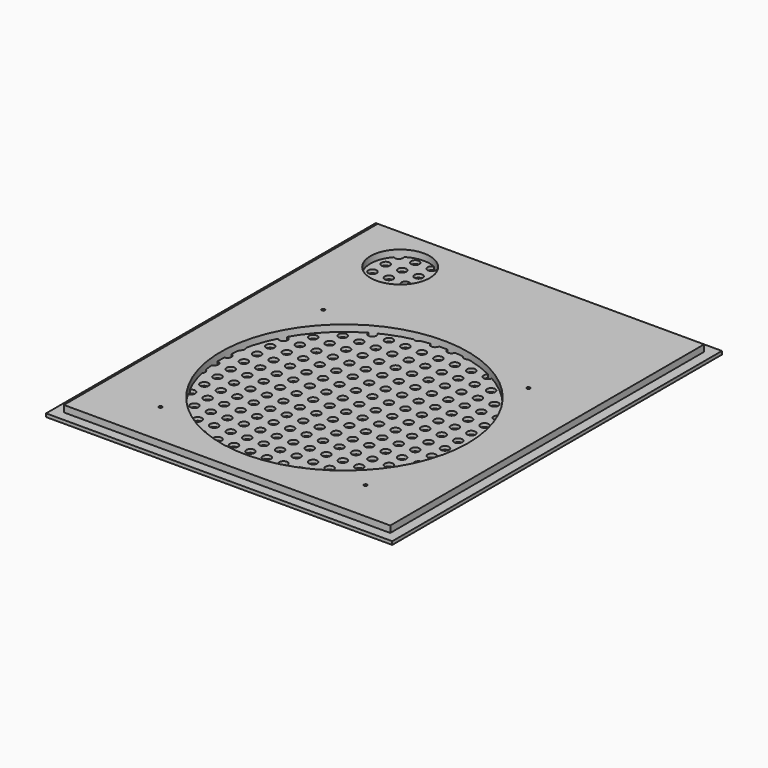
from build123d import *

# Parameters (mm, degrees)
F2_W     = 210
F2_H     = 250
F2_R     = 2.5
F3_DEPTH = 2
F1_W     = 198
F1_H     = 238
F1_R     = 1
F1_R_2   = 75
F1_R_3   = 18
F4_DEPTH = 6


with BuildPart() as f3:
    # F2 (on Top) → F3 (new body)
    with BuildSketch(Plane.XY):
        Rectangle(F2_W, F2_H)
        with Locations((-95, -115)):
            Circle(F2_R, mode=Mode.SUBTRACT)
        with Locations((-85, -115)):
            Circle(F2_R, mode=Mode.SUBTRACT)
        with Locations((-95, -105)):
            Circle(F2_R, mode=Mode.SUBTRACT)
        with Locations((-95, -95)):
            Circle(F2_R, mode=Mode.SUBTRACT)
        with Locations((-85, -105)):
            Circle(F2_R, mode=Mode.SUBTRACT)
        with Locations((-85, -95)):
            Circle(F2_R, mode=Mode.SUBTRACT)
        with Locations((-75, -115)):
            Circle(F2_R, mode=Mode.SUBTRACT)
        with Locations((-65, -115)):
            Circle(F2_R, mode=Mode.SUBTRACT)
        with Locations((-55, -115)):
            Circle(F2_R, mode=Mode.SUBTRACT)
        with Locations((-75, -105)):
            Circle(F2_R, mode=Mode.SUBTRACT)
        with Locations((-75, -95)):
            Circle(F2_R, mode=Mode.SUBTRACT)
        with Locations((-65, -105)):
            Circle(F2_R, mode=Mode.SUBTRACT)
        with Locations((-55, -105)):
            Circle(F2_R, mode=Mode.SUBTRACT)
        with Locations((-65, -95)):
            Circle(F2_R, mode=Mode.SUBTRACT)
        with Locations((-55, -95)):
            Circle(F2_R, mode=Mode.SUBTRACT)
        with Locations((-95, -85)):
            Circle(F2_R, mode=Mode.SUBTRACT)
        with Locations((-85, -85)):
            Circle(F2_R, mode=Mode.SUBTRACT)
        with Locations((-95, -75)):
            Circle(F2_R, mode=Mode.SUBTRACT)
        with Locations((-95, -65)):
            Circle(F2_R, mode=Mode.SUBTRACT)
        with Locations((-85, -75)):
            Circle(F2_R, mode=Mode.SUBTRACT)
        with Locations((-85, -65)):
            Circle(F2_R, mode=Mode.SUBTRACT)
        with Locations((-75, -85)):
            Circle(F2_R, mode=Mode.SUBTRACT)
        with Locations((-65, -85)):
            Circle(F2_R, mode=Mode.SUBTRACT)
        with Locations((-55, -85)):
            Circle(F2_R, mode=Mode.SUBTRACT)
        with Locations((-75, -75)):
            Circle(F2_R, mode=Mode.SUBTRACT)
        with Locations((-75, -65)):
            Circle(F2_R, mode=Mode.SUBTRACT)
        with Locations((-65, -75)):
            Circle(F2_R, mode=Mode.SUBTRACT)
        with Locations((-55, -75)):
            Circle(F2_R, mode=Mode.SUBTRACT)
        with Locations((-65, -65)):
            Circle(F2_R, mode=Mode.SUBTRACT)
        with Locations((-55, -65)):
            Circle(F2_R, mode=Mode.SUBTRACT)
        with Locations((-45, -115)):
            Circle(F2_R, mode=Mode.SUBTRACT)
        with Locations((-35, -115)):
            Circle(F2_R, mode=Mode.SUBTRACT)
        with Locations((-45, -105)):
            Circle(F2_R, mode=Mode.SUBTRACT)
        with Locations((-45, -95)):
            Circle(F2_R, mode=Mode.SUBTRACT)
        with Locations((-35, -105)):
            Circle(F2_R, mode=Mode.SUBTRACT)
        with Locations((-35, -95)):
            Circle(F2_R, mode=Mode.SUBTRACT)
        with Locations((-25, -115)):
            Circle(F2_R, mode=Mode.SUBTRACT)
        with Locations((-15, -115)):
            Circle(F2_R, mode=Mode.SUBTRACT)
        with Locations((-5, -115)):
            Circle(F2_R, mode=Mode.SUBTRACT)
        with Locations((-25, -105)):
            Circle(F2_R, mode=Mode.SUBTRACT)
        with Locations((-15, -105)):
            Circle(F2_R, mode=Mode.SUBTRACT)
        with Locations((-25, -95)):
            Circle(F2_R, mode=Mode.SUBTRACT)
        with Locations((-15, -95)):
            Circle(F2_R, mode=Mode.SUBTRACT)
        with Locations((-5, -105)):
            Circle(F2_R, mode=Mode.SUBTRACT)
        with Locations((-5, -95)):
            Circle(F2_R, mode=Mode.SUBTRACT)
        with Locations((-45, -85)):
            Circle(F2_R, mode=Mode.SUBTRACT)
        with Locations((-35, -85)):
            Circle(F2_R, mode=Mode.SUBTRACT)
        with Locations((-45, -75)):
            Circle(F2_R, mode=Mode.SUBTRACT)
        with Locations((-45, -65)):
            Circle(F2_R, mode=Mode.SUBTRACT)
        with Locations((-35, -75)):
            Circle(F2_R, mode=Mode.SUBTRACT)
        with Locations((-35, -65)):
            Circle(F2_R, mode=Mode.SUBTRACT)
        with Locations((-25, -85)):
            Circle(F2_R, mode=Mode.SUBTRACT)
        with Locations((-15, -85)):
            Circle(F2_R, mode=Mode.SUBTRACT)
        with Locations((-5, -85)):
            Circle(F2_R, mode=Mode.SUBTRACT)
        with Locations((-25, -75)):
            Circle(F2_R, mode=Mode.SUBTRACT)
        with Locations((-15, -75)):
            Circle(F2_R, mode=Mode.SUBTRACT)
        with Locations((-25, -65)):
            Circle(F2_R, mode=Mode.SUBTRACT)
        with Locations((-15, -65)):
            Circle(F2_R, mode=Mode.SUBTRACT)
        with Locations((-5, -75)):
            Circle(F2_R, mode=Mode.SUBTRACT)
        with Locations((-5, -65)):
            Circle(F2_R, mode=Mode.SUBTRACT)
        with Locations((-95, -55)):
            Circle(F2_R, mode=Mode.SUBTRACT)
        with Locations((-85, -55)):
            Circle(F2_R, mode=Mode.SUBTRACT)
        with Locations((-95, -45)):
            Circle(F2_R, mode=Mode.SUBTRACT)
        with Locations((-95, -35)):
            Circle(F2_R, mode=Mode.SUBTRACT)
        with Locations((-85, -45)):
            Circle(F2_R, mode=Mode.SUBTRACT)
        with Locations((-85, -35)):
            Circle(F2_R, mode=Mode.SUBTRACT)
        with Locations((-75, -55)):
            Circle(F2_R, mode=Mode.SUBTRACT)
        with Locations((-65, -55)):
            Circle(F2_R, mode=Mode.SUBTRACT)
        with Locations((-55, -55)):
            Circle(F2_R, mode=Mode.SUBTRACT)
        with Locations((-75, -45)):
            Circle(F2_R, mode=Mode.SUBTRACT)
        with Locations((-75, -35)):
            Circle(F2_R, mode=Mode.SUBTRACT)
        with Locations((-65, -45)):
            Circle(F2_R, mode=Mode.SUBTRACT)
        with Locations((-55, -45)):
            Circle(F2_R, mode=Mode.SUBTRACT)
        with Locations((-65, -35)):
            Circle(F2_R, mode=Mode.SUBTRACT)
        with Locations((-55, -35)):
            Circle(F2_R, mode=Mode.SUBTRACT)
        with Locations((-95, -25)):
            Circle(F2_R, mode=Mode.SUBTRACT)
        with Locations((-85, -25)):
            Circle(F2_R, mode=Mode.SUBTRACT)
        with Locations((-95, -15)):
            Circle(F2_R, mode=Mode.SUBTRACT)
        with Locations((-95, -5)):
            Circle(F2_R, mode=Mode.SUBTRACT)
        with Locations((-85, -15)):
            Circle(F2_R, mode=Mode.SUBTRACT)
        with Locations((-85, -5)):
            Circle(F2_R, mode=Mode.SUBTRACT)
        with Locations((-75, -25)):
            Circle(F2_R, mode=Mode.SUBTRACT)
        with Locations((-65, -25)):
            Circle(F2_R, mode=Mode.SUBTRACT)
        with Locations((-55, -25)):
            Circle(F2_R, mode=Mode.SUBTRACT)
        with Locations((-75, -15)):
            Circle(F2_R, mode=Mode.SUBTRACT)
        with Locations((-75, -5)):
            Circle(F2_R, mode=Mode.SUBTRACT)
        with Locations((-65, -15)):
            Circle(F2_R, mode=Mode.SUBTRACT)
        with Locations((-55, -15)):
            Circle(F2_R, mode=Mode.SUBTRACT)
        with Locations((-65, -5)):
            Circle(F2_R, mode=Mode.SUBTRACT)
        with Locations((-55, -5)):
            Circle(F2_R, mode=Mode.SUBTRACT)
        with Locations((-45, -55)):
            Circle(F2_R, mode=Mode.SUBTRACT)
        with Locations((-35, -55)):
            Circle(F2_R, mode=Mode.SUBTRACT)
        with Locations((-45, -45)):
            Circle(F2_R, mode=Mode.SUBTRACT)
        with Locations((-45, -35)):
            Circle(F2_R, mode=Mode.SUBTRACT)
        with Locations((-35, -45)):
            Circle(F2_R, mode=Mode.SUBTRACT)
        with Locations((-35, -35)):
            Circle(F2_R, mode=Mode.SUBTRACT)
        with Locations((-25, -55)):
            Circle(F2_R, mode=Mode.SUBTRACT)
        with Locations((-15, -55)):
            Circle(F2_R, mode=Mode.SUBTRACT)
        with Locations((-5, -55)):
            Circle(F2_R, mode=Mode.SUBTRACT)
        with Locations((-25, -45)):
            Circle(F2_R, mode=Mode.SUBTRACT)
        with Locations((-15, -45)):
            Circle(F2_R, mode=Mode.SUBTRACT)
        with Locations((-25, -35)):
            Circle(F2_R, mode=Mode.SUBTRACT)
        with Locations((-15, -35)):
            Circle(F2_R, mode=Mode.SUBTRACT)
        with Locations((-5, -45)):
            Circle(F2_R, mode=Mode.SUBTRACT)
        with Locations((-5, -35)):
            Circle(F2_R, mode=Mode.SUBTRACT)
        with Locations((-45, -25)):
            Circle(F2_R, mode=Mode.SUBTRACT)
        with Locations((-35, -25)):
            Circle(F2_R, mode=Mode.SUBTRACT)
        with Locations((-45, -15)):
            Circle(F2_R, mode=Mode.SUBTRACT)
        with Locations((-45, -5)):
            Circle(F2_R, mode=Mode.SUBTRACT)
        with Locations((-35, -15)):
            Circle(F2_R, mode=Mode.SUBTRACT)
        with Locations((-35, -5)):
            Circle(F2_R, mode=Mode.SUBTRACT)
        with Locations((-25, -25)):
            Circle(F2_R, mode=Mode.SUBTRACT)
        with Locations((-15, -25)):
            Circle(F2_R, mode=Mode.SUBTRACT)
        with Locations((-5, -25)):
            Circle(F2_R, mode=Mode.SUBTRACT)
        with Locations((-25, -15)):
            Circle(F2_R, mode=Mode.SUBTRACT)
        with Locations((-15, -15)):
            Circle(F2_R, mode=Mode.SUBTRACT)
        with Locations((-25, -5)):
            Circle(F2_R, mode=Mode.SUBTRACT)
        with Locations((-15, -5)):
            Circle(F2_R, mode=Mode.SUBTRACT)
        with Locations((-5, -15)):
            Circle(F2_R, mode=Mode.SUBTRACT)
        with Locations((-5, -5)):
            Circle(F2_R, mode=Mode.SUBTRACT)
        with Locations((5, -115)):
            Circle(F2_R, mode=Mode.SUBTRACT)
        with Locations((15, -115)):
            Circle(F2_R, mode=Mode.SUBTRACT)
        with Locations((25, -115)):
            Circle(F2_R, mode=Mode.SUBTRACT)
        with Locations((5, -105)):
            Circle(F2_R, mode=Mode.SUBTRACT)
        with Locations((5, -95)):
            Circle(F2_R, mode=Mode.SUBTRACT)
        with Locations((15, -105)):
            Circle(F2_R, mode=Mode.SUBTRACT)
        with Locations((25, -105)):
            Circle(F2_R, mode=Mode.SUBTRACT)
        with Locations((15, -95)):
            Circle(F2_R, mode=Mode.SUBTRACT)
        with Locations((25, -95)):
            Circle(F2_R, mode=Mode.SUBTRACT)
        with Locations((35, -115)):
            Circle(F2_R, mode=Mode.SUBTRACT)
        with Locations((45, -115)):
            Circle(F2_R, mode=Mode.SUBTRACT)
        with Locations((35, -105)):
            Circle(F2_R, mode=Mode.SUBTRACT)
        with Locations((35, -95)):
            Circle(F2_R, mode=Mode.SUBTRACT)
        with Locations((45, -105)):
            Circle(F2_R, mode=Mode.SUBTRACT)
        with Locations((45, -95)):
            Circle(F2_R, mode=Mode.SUBTRACT)
        with Locations((5, -85)):
            Circle(F2_R, mode=Mode.SUBTRACT)
        with Locations((15, -85)):
            Circle(F2_R, mode=Mode.SUBTRACT)
        with Locations((25, -85)):
            Circle(F2_R, mode=Mode.SUBTRACT)
        with Locations((5, -75)):
            Circle(F2_R, mode=Mode.SUBTRACT)
        with Locations((5, -65)):
            Circle(F2_R, mode=Mode.SUBTRACT)
        with Locations((15, -75)):
            Circle(F2_R, mode=Mode.SUBTRACT)
        with Locations((25, -75)):
            Circle(F2_R, mode=Mode.SUBTRACT)
        with Locations((15, -65)):
            Circle(F2_R, mode=Mode.SUBTRACT)
        with Locations((25, -65)):
            Circle(F2_R, mode=Mode.SUBTRACT)
        with Locations((35, -85)):
            Circle(F2_R, mode=Mode.SUBTRACT)
        with Locations((45, -85)):
            Circle(F2_R, mode=Mode.SUBTRACT)
        with Locations((35, -75)):
            Circle(F2_R, mode=Mode.SUBTRACT)
        with Locations((35, -65)):
            Circle(F2_R, mode=Mode.SUBTRACT)
        with Locations((45, -75)):
            Circle(F2_R, mode=Mode.SUBTRACT)
        with Locations((45, -65)):
            Circle(F2_R, mode=Mode.SUBTRACT)
        with Locations((55, -115)):
            Circle(F2_R, mode=Mode.SUBTRACT)
        with Locations((65, -115)):
            Circle(F2_R, mode=Mode.SUBTRACT)
        with Locations((75, -115)):
            Circle(F2_R, mode=Mode.SUBTRACT)
        with Locations((55, -105)):
            Circle(F2_R, mode=Mode.SUBTRACT)
        with Locations((65, -105)):
            Circle(F2_R, mode=Mode.SUBTRACT)
        with Locations((55, -95)):
            Circle(F2_R, mode=Mode.SUBTRACT)
        with Locations((65, -95)):
            Circle(F2_R, mode=Mode.SUBTRACT)
        with Locations((75, -105)):
            Circle(F2_R, mode=Mode.SUBTRACT)
        with Locations((75, -95)):
            Circle(F2_R, mode=Mode.SUBTRACT)
        with Locations((85, -115)):
            Circle(F2_R, mode=Mode.SUBTRACT)
        with Locations((95, -115)):
            Circle(F2_R, mode=Mode.SUBTRACT)
        with Locations((85, -105)):
            Circle(F2_R, mode=Mode.SUBTRACT)
        with Locations((85, -95)):
            Circle(F2_R, mode=Mode.SUBTRACT)
        with Locations((95, -105)):
            Circle(F2_R, mode=Mode.SUBTRACT)
        with Locations((95, -95)):
            Circle(F2_R, mode=Mode.SUBTRACT)
        with Locations((55, -85)):
            Circle(F2_R, mode=Mode.SUBTRACT)
        with Locations((65, -85)):
            Circle(F2_R, mode=Mode.SUBTRACT)
        with Locations((75, -85)):
            Circle(F2_R, mode=Mode.SUBTRACT)
        with Locations((55, -75)):
            Circle(F2_R, mode=Mode.SUBTRACT)
        with Locations((65, -75)):
            Circle(F2_R, mode=Mode.SUBTRACT)
        with Locations((55, -65)):
            Circle(F2_R, mode=Mode.SUBTRACT)
        with Locations((65, -65)):
            Circle(F2_R, mode=Mode.SUBTRACT)
        with Locations((75, -75)):
            Circle(F2_R, mode=Mode.SUBTRACT)
        with Locations((75, -65)):
            Circle(F2_R, mode=Mode.SUBTRACT)
        with Locations((85, -85)):
            Circle(F2_R, mode=Mode.SUBTRACT)
        with Locations((95, -85)):
            Circle(F2_R, mode=Mode.SUBTRACT)
        with Locations((85, -75)):
            Circle(F2_R, mode=Mode.SUBTRACT)
        with Locations((85, -65)):
            Circle(F2_R, mode=Mode.SUBTRACT)
        with Locations((95, -75)):
            Circle(F2_R, mode=Mode.SUBTRACT)
        with Locations((95, -65)):
            Circle(F2_R, mode=Mode.SUBTRACT)
        with Locations((5, -55)):
            Circle(F2_R, mode=Mode.SUBTRACT)
        with Locations((15, -55)):
            Circle(F2_R, mode=Mode.SUBTRACT)
        with Locations((25, -55)):
            Circle(F2_R, mode=Mode.SUBTRACT)
        with Locations((5, -45)):
            Circle(F2_R, mode=Mode.SUBTRACT)
        with Locations((5, -35)):
            Circle(F2_R, mode=Mode.SUBTRACT)
        with Locations((15, -45)):
            Circle(F2_R, mode=Mode.SUBTRACT)
        with Locations((25, -45)):
            Circle(F2_R, mode=Mode.SUBTRACT)
        with Locations((15, -35)):
            Circle(F2_R, mode=Mode.SUBTRACT)
        with Locations((25, -35)):
            Circle(F2_R, mode=Mode.SUBTRACT)
        with Locations((35, -55)):
            Circle(F2_R, mode=Mode.SUBTRACT)
        with Locations((45, -55)):
            Circle(F2_R, mode=Mode.SUBTRACT)
        with Locations((35, -45)):
            Circle(F2_R, mode=Mode.SUBTRACT)
        with Locations((35, -35)):
            Circle(F2_R, mode=Mode.SUBTRACT)
        with Locations((45, -45)):
            Circle(F2_R, mode=Mode.SUBTRACT)
        with Locations((45, -35)):
            Circle(F2_R, mode=Mode.SUBTRACT)
        with Locations((5, -25)):
            Circle(F2_R, mode=Mode.SUBTRACT)
        with Locations((15, -25)):
            Circle(F2_R, mode=Mode.SUBTRACT)
        with Locations((25, -25)):
            Circle(F2_R, mode=Mode.SUBTRACT)
        with Locations((5, -15)):
            Circle(F2_R, mode=Mode.SUBTRACT)
        with Locations((5, -5)):
            Circle(F2_R, mode=Mode.SUBTRACT)
        with Locations((15, -15)):
            Circle(F2_R, mode=Mode.SUBTRACT)
        with Locations((25, -15)):
            Circle(F2_R, mode=Mode.SUBTRACT)
        with Locations((15, -5)):
            Circle(F2_R, mode=Mode.SUBTRACT)
        with Locations((25, -5)):
            Circle(F2_R, mode=Mode.SUBTRACT)
        with Locations((35, -25)):
            Circle(F2_R, mode=Mode.SUBTRACT)
        with Locations((45, -25)):
            Circle(F2_R, mode=Mode.SUBTRACT)
        with Locations((35, -15)):
            Circle(F2_R, mode=Mode.SUBTRACT)
        with Locations((35, -5)):
            Circle(F2_R, mode=Mode.SUBTRACT)
        with Locations((45, -15)):
            Circle(F2_R, mode=Mode.SUBTRACT)
        with Locations((45, -5)):
            Circle(F2_R, mode=Mode.SUBTRACT)
        with Locations((55, -55)):
            Circle(F2_R, mode=Mode.SUBTRACT)
        with Locations((65, -55)):
            Circle(F2_R, mode=Mode.SUBTRACT)
        with Locations((75, -55)):
            Circle(F2_R, mode=Mode.SUBTRACT)
        with Locations((55, -45)):
            Circle(F2_R, mode=Mode.SUBTRACT)
        with Locations((65, -45)):
            Circle(F2_R, mode=Mode.SUBTRACT)
        with Locations((55, -35)):
            Circle(F2_R, mode=Mode.SUBTRACT)
        with Locations((65, -35)):
            Circle(F2_R, mode=Mode.SUBTRACT)
        with Locations((75, -45)):
            Circle(F2_R, mode=Mode.SUBTRACT)
        with Locations((75, -35)):
            Circle(F2_R, mode=Mode.SUBTRACT)
        with Locations((85, -55)):
            Circle(F2_R, mode=Mode.SUBTRACT)
        with Locations((95, -55)):
            Circle(F2_R, mode=Mode.SUBTRACT)
        with Locations((85, -45)):
            Circle(F2_R, mode=Mode.SUBTRACT)
        with Locations((85, -35)):
            Circle(F2_R, mode=Mode.SUBTRACT)
        with Locations((95, -45)):
            Circle(F2_R, mode=Mode.SUBTRACT)
        with Locations((95, -35)):
            Circle(F2_R, mode=Mode.SUBTRACT)
        with Locations((55, -25)):
            Circle(F2_R, mode=Mode.SUBTRACT)
        with Locations((65, -25)):
            Circle(F2_R, mode=Mode.SUBTRACT)
        with Locations((75, -25)):
            Circle(F2_R, mode=Mode.SUBTRACT)
        with Locations((55, -15)):
            Circle(F2_R, mode=Mode.SUBTRACT)
        with Locations((65, -15)):
            Circle(F2_R, mode=Mode.SUBTRACT)
        with Locations((55, -5)):
            Circle(F2_R, mode=Mode.SUBTRACT)
        with Locations((65, -5)):
            Circle(F2_R, mode=Mode.SUBTRACT)
        with Locations((75, -15)):
            Circle(F2_R, mode=Mode.SUBTRACT)
        with Locations((75, -5)):
            Circle(F2_R, mode=Mode.SUBTRACT)
        with Locations((85, -25)):
            Circle(F2_R, mode=Mode.SUBTRACT)
        with Locations((95, -25)):
            Circle(F2_R, mode=Mode.SUBTRACT)
        with Locations((85, -15)):
            Circle(F2_R, mode=Mode.SUBTRACT)
        with Locations((85, -5)):
            Circle(F2_R, mode=Mode.SUBTRACT)
        with Locations((95, -15)):
            Circle(F2_R, mode=Mode.SUBTRACT)
        with Locations((95, -5)):
            Circle(F2_R, mode=Mode.SUBTRACT)
        with Locations((-95, 5)):
            Circle(F2_R, mode=Mode.SUBTRACT)
        with Locations((-95, 15)):
            Circle(F2_R, mode=Mode.SUBTRACT)
        with Locations((-85, 5)):
            Circle(F2_R, mode=Mode.SUBTRACT)
        with Locations((-85, 15)):
            Circle(F2_R, mode=Mode.SUBTRACT)
        with Locations((-95, 25)):
            Circle(F2_R, mode=Mode.SUBTRACT)
        with Locations((-85, 25)):
            Circle(F2_R, mode=Mode.SUBTRACT)
        with Locations((-75, 5)):
            Circle(F2_R, mode=Mode.SUBTRACT)
        with Locations((-75, 15)):
            Circle(F2_R, mode=Mode.SUBTRACT)
        with Locations((-65, 5)):
            Circle(F2_R, mode=Mode.SUBTRACT)
        with Locations((-55, 5)):
            Circle(F2_R, mode=Mode.SUBTRACT)
        with Locations((-65, 15)):
            Circle(F2_R, mode=Mode.SUBTRACT)
        with Locations((-55, 15)):
            Circle(F2_R, mode=Mode.SUBTRACT)
        with Locations((-75, 25)):
            Circle(F2_R, mode=Mode.SUBTRACT)
        with Locations((-65, 25)):
            Circle(F2_R, mode=Mode.SUBTRACT)
        with Locations((-55, 25)):
            Circle(F2_R, mode=Mode.SUBTRACT)
        with Locations((-95, 35)):
            Circle(F2_R, mode=Mode.SUBTRACT)
        with Locations((-95, 45)):
            Circle(F2_R, mode=Mode.SUBTRACT)
        with Locations((-85, 35)):
            Circle(F2_R, mode=Mode.SUBTRACT)
        with Locations((-85, 45)):
            Circle(F2_R, mode=Mode.SUBTRACT)
        with Locations((-95, 55)):
            Circle(F2_R, mode=Mode.SUBTRACT)
        with Locations((-85, 55)):
            Circle(F2_R, mode=Mode.SUBTRACT)
        with Locations((-75, 35)):
            Circle(F2_R, mode=Mode.SUBTRACT)
        with Locations((-75, 45)):
            Circle(F2_R, mode=Mode.SUBTRACT)
        with Locations((-65, 35)):
            Circle(F2_R, mode=Mode.SUBTRACT)
        with Locations((-55, 35)):
            Circle(F2_R, mode=Mode.SUBTRACT)
        with Locations((-65, 45)):
            Circle(F2_R, mode=Mode.SUBTRACT)
        with Locations((-55, 45)):
            Circle(F2_R, mode=Mode.SUBTRACT)
        with Locations((-75, 55)):
            Circle(F2_R, mode=Mode.SUBTRACT)
        with Locations((-65, 55)):
            Circle(F2_R, mode=Mode.SUBTRACT)
        with Locations((-55, 55)):
            Circle(F2_R, mode=Mode.SUBTRACT)
        with Locations((-45, 5)):
            Circle(F2_R, mode=Mode.SUBTRACT)
        with Locations((-45, 15)):
            Circle(F2_R, mode=Mode.SUBTRACT)
        with Locations((-35, 5)):
            Circle(F2_R, mode=Mode.SUBTRACT)
        with Locations((-35, 15)):
            Circle(F2_R, mode=Mode.SUBTRACT)
        with Locations((-45, 25)):
            Circle(F2_R, mode=Mode.SUBTRACT)
        with Locations((-35, 25)):
            Circle(F2_R, mode=Mode.SUBTRACT)
        with Locations((-25, 5)):
            Circle(F2_R, mode=Mode.SUBTRACT)
        with Locations((-15, 5)):
            Circle(F2_R, mode=Mode.SUBTRACT)
        with Locations((-25, 15)):
            Circle(F2_R, mode=Mode.SUBTRACT)
        with Locations((-15, 15)):
            Circle(F2_R, mode=Mode.SUBTRACT)
        with Locations((-5, 5)):
            Circle(F2_R, mode=Mode.SUBTRACT)
        with Locations((-5, 15)):
            Circle(F2_R, mode=Mode.SUBTRACT)
        with Locations((-25, 25)):
            Circle(F2_R, mode=Mode.SUBTRACT)
        with Locations((-15, 25)):
            Circle(F2_R, mode=Mode.SUBTRACT)
        with Locations((-5, 25)):
            Circle(F2_R, mode=Mode.SUBTRACT)
        with Locations((-45, 35)):
            Circle(F2_R, mode=Mode.SUBTRACT)
        with Locations((-45, 45)):
            Circle(F2_R, mode=Mode.SUBTRACT)
        with Locations((-35, 35)):
            Circle(F2_R, mode=Mode.SUBTRACT)
        with Locations((-35, 45)):
            Circle(F2_R, mode=Mode.SUBTRACT)
        with Locations((-45, 55)):
            Circle(F2_R, mode=Mode.SUBTRACT)
        with Locations((-35, 55)):
            Circle(F2_R, mode=Mode.SUBTRACT)
        with Locations((-25, 35)):
            Circle(F2_R, mode=Mode.SUBTRACT)
        with Locations((-15, 35)):
            Circle(F2_R, mode=Mode.SUBTRACT)
        with Locations((-25, 45)):
            Circle(F2_R, mode=Mode.SUBTRACT)
        with Locations((-15, 45)):
            Circle(F2_R, mode=Mode.SUBTRACT)
        with Locations((-5, 35)):
            Circle(F2_R, mode=Mode.SUBTRACT)
        with Locations((-5, 45)):
            Circle(F2_R, mode=Mode.SUBTRACT)
        with Locations((-25, 55)):
            Circle(F2_R, mode=Mode.SUBTRACT)
        with Locations((-15, 55)):
            Circle(F2_R, mode=Mode.SUBTRACT)
        with Locations((-5, 55)):
            Circle(F2_R, mode=Mode.SUBTRACT)
        with Locations((-95, 65)):
            Circle(F2_R, mode=Mode.SUBTRACT)
        with Locations((-95, 75)):
            Circle(F2_R, mode=Mode.SUBTRACT)
        with Locations((-85, 65)):
            Circle(F2_R, mode=Mode.SUBTRACT)
        with Locations((-85, 75)):
            Circle(F2_R, mode=Mode.SUBTRACT)
        with Locations((-95, 85)):
            Circle(F2_R, mode=Mode.SUBTRACT)
        with Locations((-85, 85)):
            Circle(F2_R, mode=Mode.SUBTRACT)
        with Locations((-75, 65)):
            Circle(F2_R, mode=Mode.SUBTRACT)
        with Locations((-75, 75)):
            Circle(F2_R, mode=Mode.SUBTRACT)
        with Locations((-65, 65)):
            Circle(F2_R, mode=Mode.SUBTRACT)
        with Locations((-55, 65)):
            Circle(F2_R, mode=Mode.SUBTRACT)
        with Locations((-65, 75)):
            Circle(F2_R, mode=Mode.SUBTRACT)
        with Locations((-55, 75)):
            Circle(F2_R, mode=Mode.SUBTRACT)
        with Locations((-75, 85)):
            Circle(F2_R, mode=Mode.SUBTRACT)
        with Locations((-65, 85)):
            Circle(F2_R, mode=Mode.SUBTRACT)
        with Locations((-55, 85)):
            Circle(F2_R, mode=Mode.SUBTRACT)
        with Locations((-95, 95)):
            Circle(F2_R, mode=Mode.SUBTRACT)
        with Locations((-95, 105)):
            Circle(F2_R, mode=Mode.SUBTRACT)
        with Locations((-85, 95)):
            Circle(F2_R, mode=Mode.SUBTRACT)
        with Locations((-85, 105)):
            Circle(F2_R, mode=Mode.SUBTRACT)
        with Locations((-95, 115)):
            Circle(F2_R, mode=Mode.SUBTRACT)
        with Locations((-85, 115)):
            Circle(F2_R, mode=Mode.SUBTRACT)
        with Locations((-75, 95)):
            Circle(F2_R, mode=Mode.SUBTRACT)
        with Locations((-75, 105)):
            Circle(F2_R, mode=Mode.SUBTRACT)
        with Locations((-65, 95)):
            Circle(F2_R, mode=Mode.SUBTRACT)
        with Locations((-55, 95)):
            Circle(F2_R, mode=Mode.SUBTRACT)
        with Locations((-65, 105)):
            Circle(F2_R, mode=Mode.SUBTRACT)
        with Locations((-55, 105)):
            Circle(F2_R, mode=Mode.SUBTRACT)
        with Locations((-75, 115)):
            Circle(F2_R, mode=Mode.SUBTRACT)
        with Locations((-65, 115)):
            Circle(F2_R, mode=Mode.SUBTRACT)
        with Locations((-55, 115)):
            Circle(F2_R, mode=Mode.SUBTRACT)
        with Locations((-45, 65)):
            Circle(F2_R, mode=Mode.SUBTRACT)
        with Locations((-45, 75)):
            Circle(F2_R, mode=Mode.SUBTRACT)
        with Locations((-35, 65)):
            Circle(F2_R, mode=Mode.SUBTRACT)
        with Locations((-35, 75)):
            Circle(F2_R, mode=Mode.SUBTRACT)
        with Locations((-45, 85)):
            Circle(F2_R, mode=Mode.SUBTRACT)
        with Locations((-35, 85)):
            Circle(F2_R, mode=Mode.SUBTRACT)
        with Locations((-25, 65)):
            Circle(F2_R, mode=Mode.SUBTRACT)
        with Locations((-15, 65)):
            Circle(F2_R, mode=Mode.SUBTRACT)
        with Locations((-25, 75)):
            Circle(F2_R, mode=Mode.SUBTRACT)
        with Locations((-15, 75)):
            Circle(F2_R, mode=Mode.SUBTRACT)
        with Locations((-5, 65)):
            Circle(F2_R, mode=Mode.SUBTRACT)
        with Locations((-5, 75)):
            Circle(F2_R, mode=Mode.SUBTRACT)
        with Locations((-25, 85)):
            Circle(F2_R, mode=Mode.SUBTRACT)
        with Locations((-15, 85)):
            Circle(F2_R, mode=Mode.SUBTRACT)
        with Locations((-5, 85)):
            Circle(F2_R, mode=Mode.SUBTRACT)
        with Locations((-45, 95)):
            Circle(F2_R, mode=Mode.SUBTRACT)
        with Locations((-45, 105)):
            Circle(F2_R, mode=Mode.SUBTRACT)
        with Locations((-35, 95)):
            Circle(F2_R, mode=Mode.SUBTRACT)
        with Locations((-35, 105)):
            Circle(F2_R, mode=Mode.SUBTRACT)
        with Locations((-45, 115)):
            Circle(F2_R, mode=Mode.SUBTRACT)
        with Locations((-35, 115)):
            Circle(F2_R, mode=Mode.SUBTRACT)
        with Locations((-25, 95)):
            Circle(F2_R, mode=Mode.SUBTRACT)
        with Locations((-15, 95)):
            Circle(F2_R, mode=Mode.SUBTRACT)
        with Locations((-25, 105)):
            Circle(F2_R, mode=Mode.SUBTRACT)
        with Locations((-15, 105)):
            Circle(F2_R, mode=Mode.SUBTRACT)
        with Locations((-5, 95)):
            Circle(F2_R, mode=Mode.SUBTRACT)
        with Locations((-5, 105)):
            Circle(F2_R, mode=Mode.SUBTRACT)
        with Locations((-25, 115)):
            Circle(F2_R, mode=Mode.SUBTRACT)
        with Locations((-15, 115)):
            Circle(F2_R, mode=Mode.SUBTRACT)
        with Locations((-5, 115)):
            Circle(F2_R, mode=Mode.SUBTRACT)
        with Locations((5, 5)):
            Circle(F2_R, mode=Mode.SUBTRACT)
        with Locations((5, 15)):
            Circle(F2_R, mode=Mode.SUBTRACT)
        with Locations((15, 5)):
            Circle(F2_R, mode=Mode.SUBTRACT)
        with Locations((25, 5)):
            Circle(F2_R, mode=Mode.SUBTRACT)
        with Locations((15, 15)):
            Circle(F2_R, mode=Mode.SUBTRACT)
        with Locations((25, 15)):
            Circle(F2_R, mode=Mode.SUBTRACT)
        with Locations((5, 25)):
            Circle(F2_R, mode=Mode.SUBTRACT)
        with Locations((15, 25)):
            Circle(F2_R, mode=Mode.SUBTRACT)
        with Locations((25, 25)):
            Circle(F2_R, mode=Mode.SUBTRACT)
        with Locations((35, 5)):
            Circle(F2_R, mode=Mode.SUBTRACT)
        with Locations((35, 15)):
            Circle(F2_R, mode=Mode.SUBTRACT)
        with Locations((45, 5)):
            Circle(F2_R, mode=Mode.SUBTRACT)
        with Locations((45, 15)):
            Circle(F2_R, mode=Mode.SUBTRACT)
        with Locations((35, 25)):
            Circle(F2_R, mode=Mode.SUBTRACT)
        with Locations((45, 25)):
            Circle(F2_R, mode=Mode.SUBTRACT)
        with Locations((5, 35)):
            Circle(F2_R, mode=Mode.SUBTRACT)
        with Locations((5, 45)):
            Circle(F2_R, mode=Mode.SUBTRACT)
        with Locations((15, 35)):
            Circle(F2_R, mode=Mode.SUBTRACT)
        with Locations((25, 35)):
            Circle(F2_R, mode=Mode.SUBTRACT)
        with Locations((15, 45)):
            Circle(F2_R, mode=Mode.SUBTRACT)
        with Locations((25, 45)):
            Circle(F2_R, mode=Mode.SUBTRACT)
        with Locations((5, 55)):
            Circle(F2_R, mode=Mode.SUBTRACT)
        with Locations((15, 55)):
            Circle(F2_R, mode=Mode.SUBTRACT)
        with Locations((25, 55)):
            Circle(F2_R, mode=Mode.SUBTRACT)
        with Locations((35, 35)):
            Circle(F2_R, mode=Mode.SUBTRACT)
        with Locations((35, 45)):
            Circle(F2_R, mode=Mode.SUBTRACT)
        with Locations((45, 35)):
            Circle(F2_R, mode=Mode.SUBTRACT)
        with Locations((45, 45)):
            Circle(F2_R, mode=Mode.SUBTRACT)
        with Locations((35, 55)):
            Circle(F2_R, mode=Mode.SUBTRACT)
        with Locations((45, 55)):
            Circle(F2_R, mode=Mode.SUBTRACT)
        with Locations((55, 5)):
            Circle(F2_R, mode=Mode.SUBTRACT)
        with Locations((65, 5)):
            Circle(F2_R, mode=Mode.SUBTRACT)
        with Locations((55, 15)):
            Circle(F2_R, mode=Mode.SUBTRACT)
        with Locations((65, 15)):
            Circle(F2_R, mode=Mode.SUBTRACT)
        with Locations((75, 5)):
            Circle(F2_R, mode=Mode.SUBTRACT)
        with Locations((75, 15)):
            Circle(F2_R, mode=Mode.SUBTRACT)
        with Locations((55, 25)):
            Circle(F2_R, mode=Mode.SUBTRACT)
        with Locations((65, 25)):
            Circle(F2_R, mode=Mode.SUBTRACT)
        with Locations((75, 25)):
            Circle(F2_R, mode=Mode.SUBTRACT)
        with Locations((85, 5)):
            Circle(F2_R, mode=Mode.SUBTRACT)
        with Locations((85, 15)):
            Circle(F2_R, mode=Mode.SUBTRACT)
        with Locations((95, 5)):
            Circle(F2_R, mode=Mode.SUBTRACT)
        with Locations((95, 15)):
            Circle(F2_R, mode=Mode.SUBTRACT)
        with Locations((85, 25)):
            Circle(F2_R, mode=Mode.SUBTRACT)
        with Locations((95, 25)):
            Circle(F2_R, mode=Mode.SUBTRACT)
        with Locations((55, 35)):
            Circle(F2_R, mode=Mode.SUBTRACT)
        with Locations((65, 35)):
            Circle(F2_R, mode=Mode.SUBTRACT)
        with Locations((55, 45)):
            Circle(F2_R, mode=Mode.SUBTRACT)
        with Locations((65, 45)):
            Circle(F2_R, mode=Mode.SUBTRACT)
        with Locations((75, 35)):
            Circle(F2_R, mode=Mode.SUBTRACT)
        with Locations((75, 45)):
            Circle(F2_R, mode=Mode.SUBTRACT)
        with Locations((55, 55)):
            Circle(F2_R, mode=Mode.SUBTRACT)
        with Locations((65, 55)):
            Circle(F2_R, mode=Mode.SUBTRACT)
        with Locations((75, 55)):
            Circle(F2_R, mode=Mode.SUBTRACT)
        with Locations((85, 35)):
            Circle(F2_R, mode=Mode.SUBTRACT)
        with Locations((85, 45)):
            Circle(F2_R, mode=Mode.SUBTRACT)
        with Locations((95, 35)):
            Circle(F2_R, mode=Mode.SUBTRACT)
        with Locations((95, 45)):
            Circle(F2_R, mode=Mode.SUBTRACT)
        with Locations((85, 55)):
            Circle(F2_R, mode=Mode.SUBTRACT)
        with Locations((95, 55)):
            Circle(F2_R, mode=Mode.SUBTRACT)
        with Locations((5, 65)):
            Circle(F2_R, mode=Mode.SUBTRACT)
        with Locations((5, 75)):
            Circle(F2_R, mode=Mode.SUBTRACT)
        with Locations((15, 65)):
            Circle(F2_R, mode=Mode.SUBTRACT)
        with Locations((25, 65)):
            Circle(F2_R, mode=Mode.SUBTRACT)
        with Locations((15, 75)):
            Circle(F2_R, mode=Mode.SUBTRACT)
        with Locations((25, 75)):
            Circle(F2_R, mode=Mode.SUBTRACT)
        with Locations((5, 85)):
            Circle(F2_R, mode=Mode.SUBTRACT)
        with Locations((15, 85)):
            Circle(F2_R, mode=Mode.SUBTRACT)
        with Locations((25, 85)):
            Circle(F2_R, mode=Mode.SUBTRACT)
        with Locations((35, 65)):
            Circle(F2_R, mode=Mode.SUBTRACT)
        with Locations((35, 75)):
            Circle(F2_R, mode=Mode.SUBTRACT)
        with Locations((45, 65)):
            Circle(F2_R, mode=Mode.SUBTRACT)
        with Locations((45, 75)):
            Circle(F2_R, mode=Mode.SUBTRACT)
        with Locations((35, 85)):
            Circle(F2_R, mode=Mode.SUBTRACT)
        with Locations((45, 85)):
            Circle(F2_R, mode=Mode.SUBTRACT)
        with Locations((5, 95)):
            Circle(F2_R, mode=Mode.SUBTRACT)
        with Locations((5, 105)):
            Circle(F2_R, mode=Mode.SUBTRACT)
        with Locations((15, 95)):
            Circle(F2_R, mode=Mode.SUBTRACT)
        with Locations((25, 95)):
            Circle(F2_R, mode=Mode.SUBTRACT)
        with Locations((15, 105)):
            Circle(F2_R, mode=Mode.SUBTRACT)
        with Locations((25, 105)):
            Circle(F2_R, mode=Mode.SUBTRACT)
        with Locations((5, 115)):
            Circle(F2_R, mode=Mode.SUBTRACT)
        with Locations((15, 115)):
            Circle(F2_R, mode=Mode.SUBTRACT)
        with Locations((25, 115)):
            Circle(F2_R, mode=Mode.SUBTRACT)
        with Locations((35, 95)):
            Circle(F2_R, mode=Mode.SUBTRACT)
        with Locations((35, 105)):
            Circle(F2_R, mode=Mode.SUBTRACT)
        with Locations((45, 95)):
            Circle(F2_R, mode=Mode.SUBTRACT)
        with Locations((45, 105)):
            Circle(F2_R, mode=Mode.SUBTRACT)
        with Locations((35, 115)):
            Circle(F2_R, mode=Mode.SUBTRACT)
        with Locations((45, 115)):
            Circle(F2_R, mode=Mode.SUBTRACT)
        with Locations((55, 65)):
            Circle(F2_R, mode=Mode.SUBTRACT)
        with Locations((65, 65)):
            Circle(F2_R, mode=Mode.SUBTRACT)
        with Locations((55, 75)):
            Circle(F2_R, mode=Mode.SUBTRACT)
        with Locations((65, 75)):
            Circle(F2_R, mode=Mode.SUBTRACT)
        with Locations((75, 65)):
            Circle(F2_R, mode=Mode.SUBTRACT)
        with Locations((75, 75)):
            Circle(F2_R, mode=Mode.SUBTRACT)
        with Locations((55, 85)):
            Circle(F2_R, mode=Mode.SUBTRACT)
        with Locations((65, 85)):
            Circle(F2_R, mode=Mode.SUBTRACT)
        with Locations((75, 85)):
            Circle(F2_R, mode=Mode.SUBTRACT)
        with Locations((85, 65)):
            Circle(F2_R, mode=Mode.SUBTRACT)
        with Locations((85, 75)):
            Circle(F2_R, mode=Mode.SUBTRACT)
        with Locations((95, 65)):
            Circle(F2_R, mode=Mode.SUBTRACT)
        with Locations((95, 75)):
            Circle(F2_R, mode=Mode.SUBTRACT)
        with Locations((85, 85)):
            Circle(F2_R, mode=Mode.SUBTRACT)
        with Locations((95, 85)):
            Circle(F2_R, mode=Mode.SUBTRACT)
        with Locations((55, 95)):
            Circle(F2_R, mode=Mode.SUBTRACT)
        with Locations((65, 95)):
            Circle(F2_R, mode=Mode.SUBTRACT)
        with Locations((55, 105)):
            Circle(F2_R, mode=Mode.SUBTRACT)
        with Locations((65, 105)):
            Circle(F2_R, mode=Mode.SUBTRACT)
        with Locations((75, 95)):
            Circle(F2_R, mode=Mode.SUBTRACT)
        with Locations((75, 105)):
            Circle(F2_R, mode=Mode.SUBTRACT)
        with Locations((55, 115)):
            Circle(F2_R, mode=Mode.SUBTRACT)
        with Locations((65, 115)):
            Circle(F2_R, mode=Mode.SUBTRACT)
        with Locations((75, 115)):
            Circle(F2_R, mode=Mode.SUBTRACT)
        with Locations((85, 95)):
            Circle(F2_R, mode=Mode.SUBTRACT)
        with Locations((85, 105)):
            Circle(F2_R, mode=Mode.SUBTRACT)
        with Locations((95, 95)):
            Circle(F2_R, mode=Mode.SUBTRACT)
        with Locations((95, 105)):
            Circle(F2_R, mode=Mode.SUBTRACT)
        with Locations((85, 115)):
            Circle(F2_R, mode=Mode.SUBTRACT)
        with Locations((95, 115)):
            Circle(F2_R, mode=Mode.SUBTRACT)
    extrude(amount=F3_DEPTH)


with BuildPart() as f4:
    # F1 (on face) → F4 (new body)
    with BuildSketch(Plane.XY):
        Rectangle(F1_W, F1_H)
        with Locations((-61.983869, -91.983869)):
            Circle(F1_R, mode=Mode.SUBTRACT)
        with Locations((64, -94)):
            Circle(F1_R, mode=Mode.SUBTRACT)
        with Locations((0, -30)):
            Circle(F1_R_2, mode=Mode.SUBTRACT)
        with Locations((-64, 34)):
            Circle(F1_R, mode=Mode.SUBTRACT)
        with Locations((-63, 91)):
            Circle(F1_R_3, mode=Mode.SUBTRACT)
        with Locations((61.983869, 31.983869)):
            Circle(F1_R, mode=Mode.SUBTRACT)
    extrude(amount=F4_DEPTH)


solid = Compound([f3.part, f4.part])
